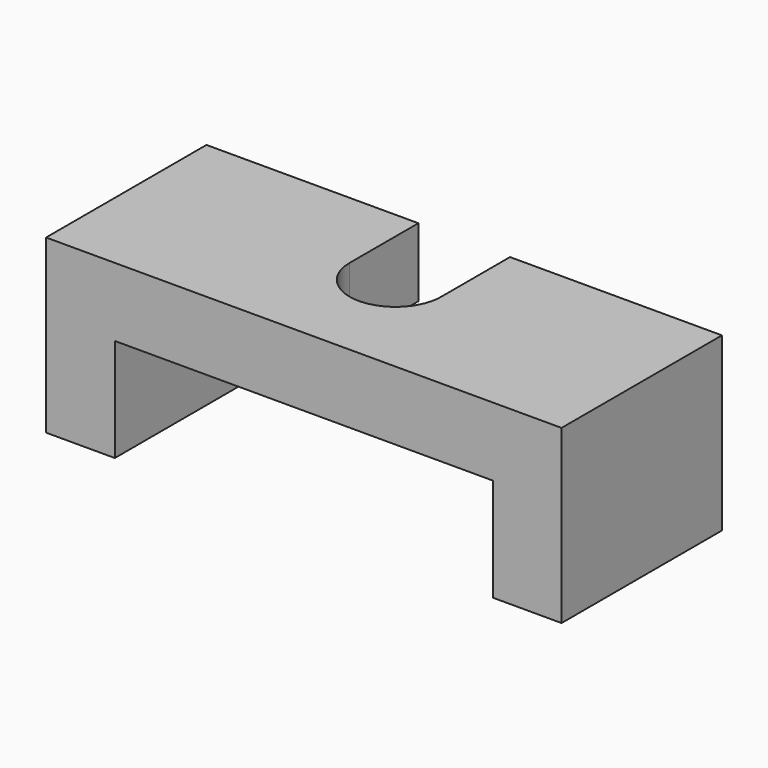
from build123d import *

# Parameters (mm, degrees)
F1_DEPTH = 35
F3_DEPTH = 30.001


with BuildPart() as f1:
    # F0 (on Front) → F1 (new body)
    with BuildSketch(Plane.XZ):
        Polygon((0, 30), (0, 0), (12, 0), (12, 18), (78, 18), (78, 0), (90, 0), (90, 30), align=None)
    extrude(amount=F1_DEPTH)

    # F2 (on face) → F3 (cut, through all)
    with BuildSketch(Plane.XY.offset(30)):
        with BuildLine():
            Line((37, 0), (37, -15))
            ThreePointArc((37, -15), (45, -23), (53, -15))
            Line((53, -15), (53, 0))
            Line((53, 0), (37, 0))
        make_face()
    extrude(amount=-F3_DEPTH, mode=Mode.SUBTRACT)


solid = f1.part
